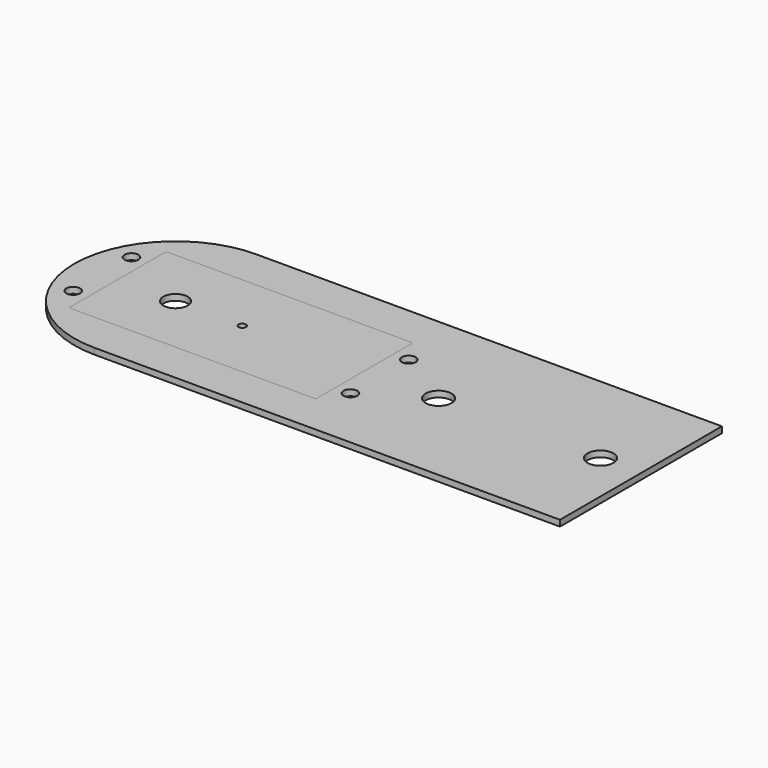
from build123d import *

# Parameters (mm, degrees)
F0_R     = 1.7
F0_R_2   = 0.9
F0_R_3   = 3
F0_R_4   = 3.2
F1_DEPTH = 1.5
F2_R     = 1.7
F2_R_2   = 3.2
F3_DEPTH = 1.5
F4_R     = 0.5


with BuildPart() as f1:
    # F0 (on Top) → F1 (new body)
    with BuildSketch(Plane.XY):
        with BuildLine():
            Line((70, -25), (70, 25))
            Line((70, 25), (-45, 25))
            ThreePointArc((-45, 25), (-62.67767, 17.67767), (-70, 0))
            ThreePointArc((-70, 0), (-62.67767, -17.67767), (-45, -25))
            Line((-45, -25), (70, -25))
        make_face()
        with Locations((-63.075, -9)):
            Circle(F0_R, mode=Mode.SUBTRACT)
        with Locations((5.425, -9)):
            Circle(F0_R, mode=Mode.SUBTRACT)
        with Locations((-61.5, 0)):
            Circle(F0_R_2, mode=Mode.SUBTRACT)
        with Locations((-45, 0)):
            Circle(F0_R_3, mode=Mode.SUBTRACT)
        with Locations((-63.075, 9)):
            Circle(F0_R, mode=Mode.SUBTRACT)
        with Locations((-28.5, 0)):
            Circle(F0_R_2, mode=Mode.SUBTRACT)
        with Locations((20, 0)):
            Circle(F0_R_4, mode=Mode.SUBTRACT)
        with Locations((5.425, 9)):
            Circle(F0_R, mode=Mode.SUBTRACT)
        with Locations((60, 0)):
            Circle(F0_R_4, mode=Mode.SUBTRACT)
    extrude(amount=F1_DEPTH)


with BuildPart() as f3:
    # F2 (on Top) → F3 (new body)
    with BuildSketch(Plane.XY):
        with BuildLine():
            Line((70, -25), (70, 25))
            Line((70, 25), (-45, 25))
            ThreePointArc((-45, 25), (-62.67767, 17.67767), (-70, 0))
            ThreePointArc((-70, 0), (-62.67767, -17.67767), (-45, -25))
            Line((-45, -25), (70, -25))
        make_face()
        with Locations((-63.075, -9)):
            Circle(F2_R, mode=Mode.SUBTRACT)
        with Locations((5.425, -9)):
            Circle(F2_R, mode=Mode.SUBTRACT)
        with Locations((-63.075, 9)):
            Circle(F2_R, mode=Mode.SUBTRACT)
        Polygon((-28.825, 15), (1.675, 15), (1.675, -15), (-28.825, -15), (-59.325, -15), (-59.325, 15), align=None, mode=Mode.SUBTRACT)
        with Locations((20, 0)):
            Circle(F2_R_2, mode=Mode.SUBTRACT)
        with Locations((5.425, 9)):
            Circle(F2_R, mode=Mode.SUBTRACT)
        with Locations((60, 0)):
            Circle(F2_R_2, mode=Mode.SUBTRACT)
    extrude(amount=F3_DEPTH)

    # F4
    f4_edges = [f3.edges().sort_by_distance(p)[0] for p in [
        (-59.325, 15, 0.75),
        (-59.325, -15, 0.75),
        (1.675, -15, 0.75),
        (1.675, 15, 0.75),
    ]]
    fillet(f4_edges, radius=F4_R)


solid = Compound([f1.part, f3.part])
